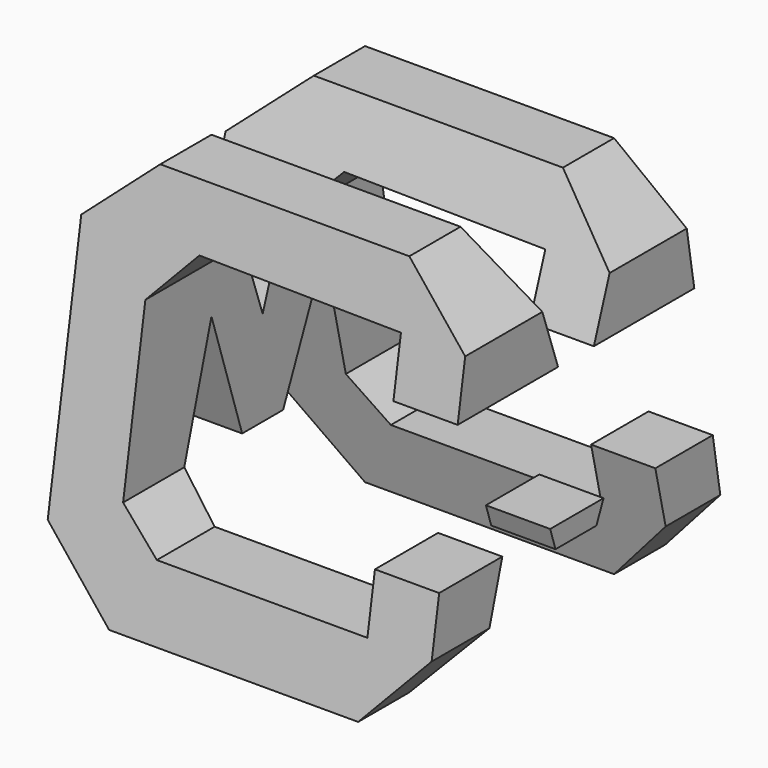
from build123d import *

# Parameters (mm, degrees)
F0_W     = 38.1
F0_H     = 38.1
F1_DEPTH = 38.1
F5_DEPTH = 38.1
F7_DEPTH = 38.1


with BuildPart() as f1:
    # F0 (on Front) → F1 (new body)
    with BuildSketch(Plane.XZ):
        with Locations((19.05, 19.05)):
            Rectangle(F0_W, F0_H)
    extrude(amount=F1_DEPTH)

    # F4 (on offset) → F5 (cut)
    with BuildSketch(Plane.YZ.offset(38.1)):
        Polygon((-38.1, 38.1), (-38.1, 0), (-31.75, 38.1), align=None)
        Polygon((-19.05, 19.875096), (-12.7, 38.1), (-25.4, 38.1), align=None)
        Polygon((-6.35, 38.1), (0, 0), (0, 38.1), align=None)
        Polygon((-31.75, 0), (-6.35, 0), (-11.43, 22.225), (-16.51, 10.447165), (-21.59, 10.447165), (-25.4, 22.225), align=None)
    extrude(amount=-F5_DEPTH, mode=Mode.SUBTRACT)

    # F6 (on offset) → F7 (cut)
    with BuildSketch(Plane.XZ.offset(38.1)):
        Polygon((0, 38.1), (0, 31.851117), (7.007245, 38.1), align=None)
        Polygon((0, 6.879841), (0, 0), (7.007245, 0), align=None)
        Polygon((38.1, 38.1), (31.723712, 38.1), (38.1, 31.851117), align=None)
        Polygon((38.1, 6.879841), (31.723712, 0), (38.1, 0), align=None)
        Polygon((31.723712, 12.485636), (38.1, 12.485636), (38.1, 26.24532), (31.723712, 26.24532), (31.723712, 31.851117), (11.695193, 32.067911), (7.007245, 27.009744), (7.007245, 10.422225), (10.829381, 6.879841), (31.723712, 6.879841), align=None)
    extrude(amount=-F7_DEPTH, mode=Mode.SUBTRACT)


solid = f1.part
